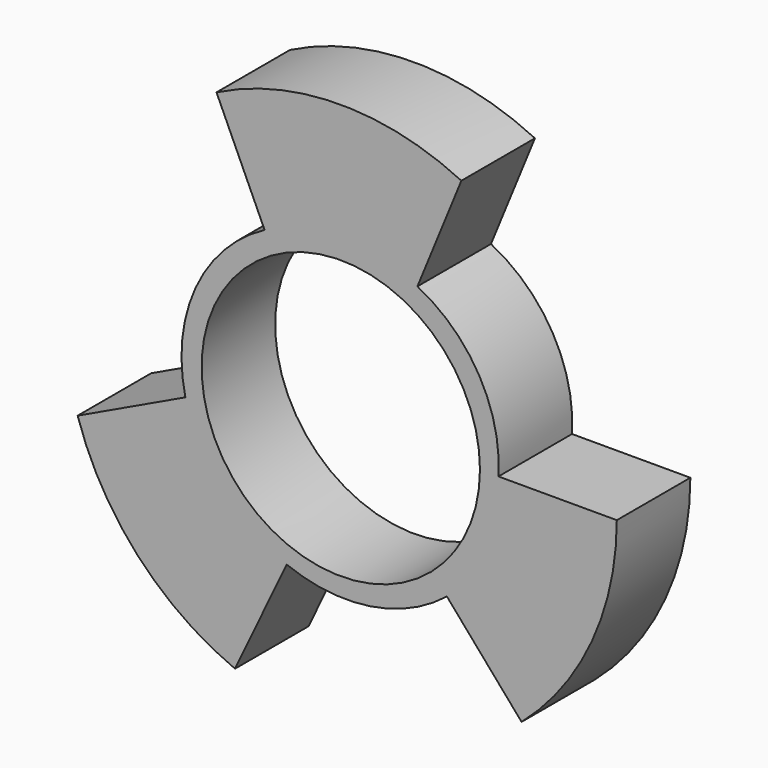
from build123d import *

# Parameters (mm, degrees)
F0_R     = 30.022303
F1_DEPTH = 10
F3_DEPTH = 25
F4_R     = 15.13861
F5_DEPTH = 25


with BuildPart() as f1:
    # F0 (on Front) → F1 (new body)
    with BuildSketch(Plane.XZ):
        Circle(F0_R)
    extrude(amount=F1_DEPTH)

    # F2 (on face) → F3 (cut)
    with BuildSketch(Plane.XZ.offset(10)):
        with BuildLine():
            ThreePointArc((-13.51767, 26.806926), (-0.223887, 30.021468), (13.11636, 27.005551))
            ThreePointArc((13.11636, 27.005551), (-0.226298, 30.344822), (-13.51767, 26.806926))
        make_face()
        with BuildLine():
            ThreePointArc((19.663822, -22.686401), (27.429863, -12.524318), (30.022303, 0))
            ThreePointArc((30.022303, 0), (27.31018, -12.469672), (19.663822, -22.686401))
        make_face()
        with BuildLine():
            ThreePointArc((-11.50515, -27.730312), (-22.127404, -20.290802), (-28.62096, -9.065281))
            ThreePointArc((-28.62096, -9.065281), (-22.573017, -20.699429), (-11.50515, -27.730312))
        make_face()
        with BuildLine():
            Line((-8.288842, 15.331867), (-13.51767, 26.806926))
            ThreePointArc((-13.51767, 26.806926), (-27.669836, 11.649842), (-28.62096, -9.065281))
            Line((-28.62096, -9.065281), (-16.901936, -3.498297))
            ThreePointArc((-16.901936, -3.498297), (-15.781932, 7.37434), (-8.288842, 15.331867))
        make_face()
        with BuildLine():
            ThreePointArc((-11.50515, -27.730312), (4.795961, -29.636758), (19.663822, -22.686401))
            Line((19.663822, -22.686401), (11.541307, -13.314021))
            ThreePointArc((11.541307, -13.314021), (3.179849, -16.970197), (-5.885188, -15.918192))
            Line((-5.885188, -15.918192), (-11.50515, -27.730312))
        make_face()
        with BuildLine():
            ThreePointArc((30.022303, 0), (25.44722, 15.930401), (13.11636, 27.005551))
            Line((13.11636, 27.005551), (8.336435, 15.331867))
            ThreePointArc((8.336435, 15.331867), (15.053544, 8.994054), (17.149832, 0))
            Line((17.149832, 0), (30.022303, 0))
        make_face()
    extrude(amount=-F3_DEPTH, mode=Mode.SUBTRACT)

    # F4 (on face) → F5 (cut)
    with BuildSketch(Plane.XZ.offset(10)):
        Circle(F4_R)
    extrude(amount=-F5_DEPTH, mode=Mode.SUBTRACT)


solid = f1.part
